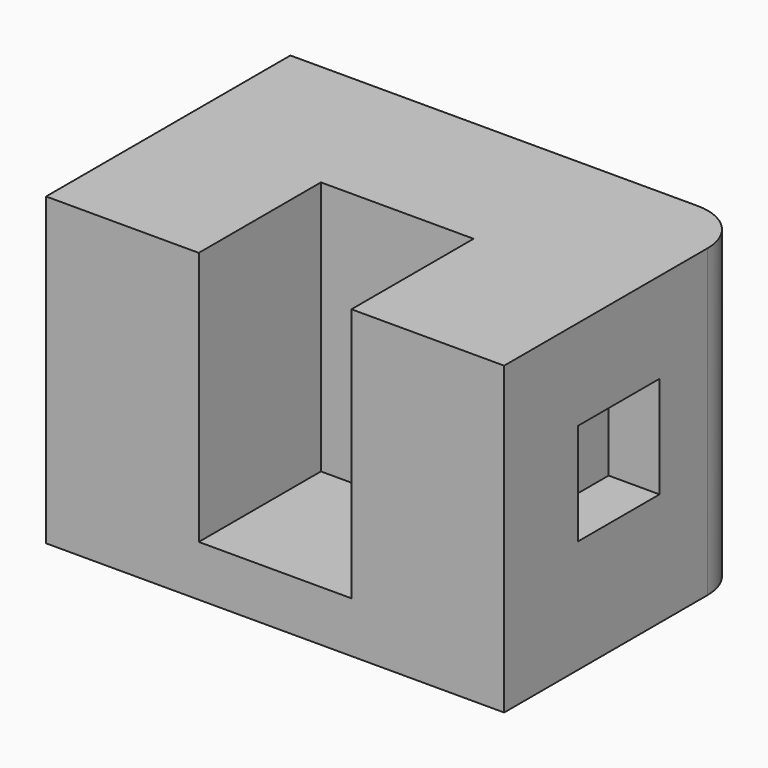
from build123d import *

# Parameters (mm, degrees)
F1_DEPTH = 152.4
F2_W     = 76.2
F2_H     = 127
F3_DEPTH = 76.2
F4_W     = 50.8
F4_H     = 50.8
F5_DEPTH = 25.4
F6_R     = 25.4


with BuildPart() as f1:
    # F0 (on Front) → F1 (new body)
    with BuildSketch(Plane.XZ):
        Polygon((-228.6, 0), (0, 0), (0, 152.4), (-161.745285, 152.4), (-228.6, 152.4), align=None)
    extrude(amount=F1_DEPTH)

    # F2 (on face) → F3 (cut)
    with BuildSketch(Plane.XZ.offset(152.4)):
        with Locations((-114.3, 88.9)):
            Rectangle(F2_W, F2_H)
    extrude(amount=-F3_DEPTH, mode=Mode.SUBTRACT)

    # F4 (on face) → F5 (cut)
    with BuildSketch(Plane.YZ):
        with Locations((-80.870854, 81.848973)):
            Rectangle(F4_W, F4_H)
    extrude(amount=-F5_DEPTH, mode=Mode.SUBTRACT)

    # F6
    f6_edges = [f1.edges().sort_by_distance(p)[0] for p in [
        (0, 0, 76.2),
    ]]
    fillet(f6_edges, radius=F6_R)


solid = f1.part
